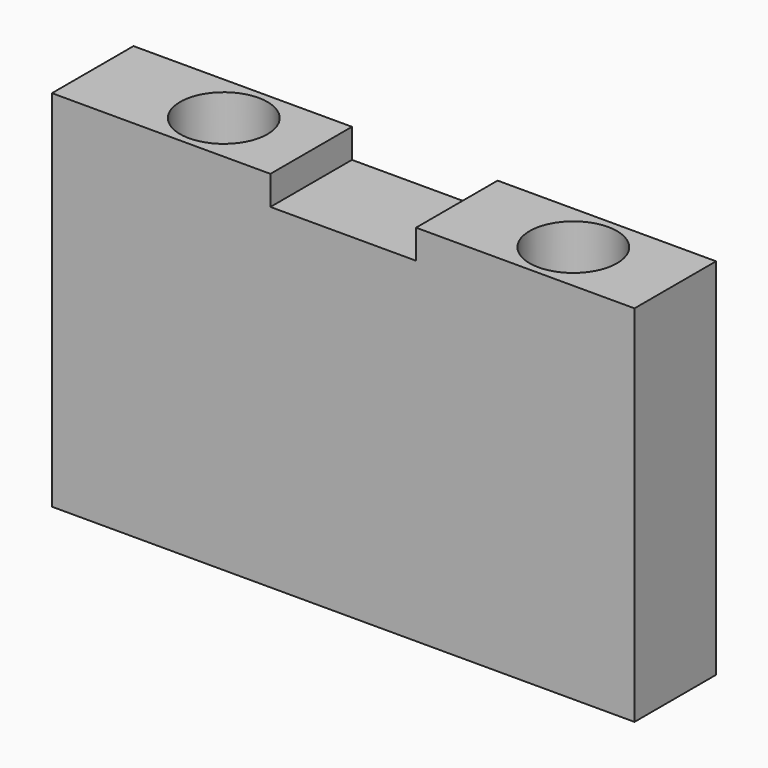
from build123d import *

# Parameters (mm, degrees)
F0_W     = 127
F0_H     = 73.025
F1_DEPTH = 22.225
F2_W     = 47.625
F2_H     = 22.225
F3_DEPTH = 6.35
F4_R     = 9.525
F5_DEPTH = 41.275


with BuildPart() as f1:
    # F0 (on Front) → F1 (new body)
    with BuildSketch(Plane.XZ):
        with Locations((0.306161, -6.260679)):
            Rectangle(F0_W, F0_H)
    extrude(amount=F1_DEPTH)

    # F2 (on face) → F3 (join)
    with BuildSketch(Plane.XY.offset(30.251821)):
        with Locations((39.993661, -11.1125)):
            Rectangle(F2_W, F2_H)
        with Locations((-39.381339, -11.1125)):
            Rectangle(F2_W, F2_H)
    extrude(amount=F3_DEPTH)

    # F4 (on face) → F5 (cut)
    with BuildSketch(Plane.XY.offset(36.601821)):
        with Locations((-34.618839, -11.1125)):
            Circle(F4_R)
        with Locations((41.581161, -11.1125)):
            Circle(F4_R)
    extrude(amount=-F5_DEPTH, mode=Mode.SUBTRACT)


solid = f1.part
